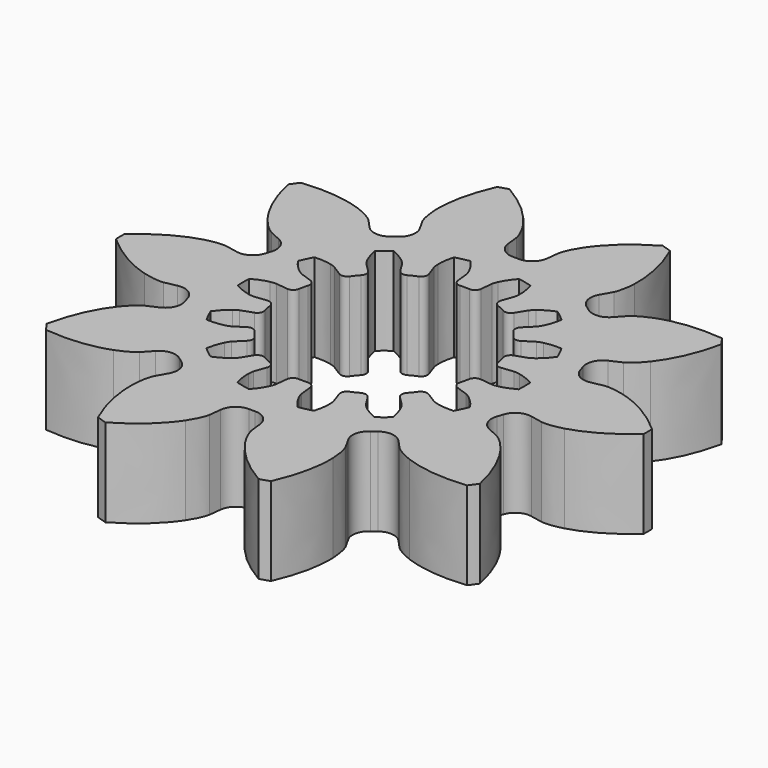
from build123d import *

# Parameters (mm, degrees)
EXTRUDE001_DEPTH = 3
EXTRUDE_DEPTH    = 3


with BuildPart() as extrude001:
    # InvoluteGear001 → Extrude001 (new body)
    with BuildSketch(Plane.XY):
        with BuildLine():
            Line((3.64295, -0.428852), (4.055425, -0.477057))
            add(Edge.make_bspline(
                [(4.055425, -0.477057), (4.07683, -0.47822), (4.141292, -0.479043), (4.249331, -0.457552)],
                knots=[0, 0, 0, 0, 1, 1, 1, 1], degree=3))
            add(Edge.make_bspline(
                [(4.249331, -0.457552), (4.378514, -0.431398), (4.564583, -0.373508), (4.794158, -0.247015)],
                knots=[0, 0, 0, 0, 1, 1, 1, 1], degree=3))
            ThreePointArc((4.794158, -0.247015), (4.800519, 0), (4.794158, 0.247015))
            add(Edge.make_bspline(
                [(4.794158, 0.247015), (4.564583, 0.373508), (4.378514, 0.431398), (4.249331, 0.457552)],
                knots=[0, 0, 0, 0, 1, 1, 1, 1], degree=3))
            add(Edge.make_bspline(
                [(4.249331, 0.457552), (4.141292, 0.479043), (4.07683, 0.47822), (4.055425, 0.477057)],
                knots=[0, 0, 0, 0, 1, 1, 1, 1], degree=3))
            Line((4.055425, 0.477057), (3.64295, 0.428852))
            ThreePointArc((3.64295, 0.428852), (3.482871, 0.471395), (3.395288, 0.611982))
            ThreePointArc((3.395288, 0.611982), (3.363501, 0.767697), (3.324578, 0.921783))
            ThreePointArc((3.324578, 0.921783), (3.342489, 1.086448), (3.468256, 1.194235))
            Line((3.468256, 1.194235), (3.860799, 1.329769))
            add(Edge.make_bspline(
                [(3.860799, 1.329769), (3.880589, 1.338009), (3.939024, 1.365237), (4.027039, 1.431476)],
                knots=[0, 0, 0, 0, 1, 1, 1, 1], degree=3))
            add(Edge.make_bspline(
                [(4.027039, 1.431476), (4.132081, 1.51109), (4.274606, 1.643979), (4.426563, 1.857555)],
                knots=[0, 0, 0, 0, 1, 1, 1, 1], degree=3))
            ThreePointArc((4.426563, 1.857555), (4.325118, 2.082867), (4.212212, 2.30266))
            add(Edge.make_bspline(
                [(4.212212, 2.30266), (3.950488, 2.317017), (3.757728, 2.288442), (3.629991, 2.255955)],
                knots=[0, 0, 0, 0, 1, 1, 1, 1], degree=3))
            add(Edge.make_bspline(
                [(3.629991, 2.255955), (3.523326, 2.228442), (3.465606, 2.199731), (3.446824, 2.189397)],
                knots=[0, 0, 0, 0, 1, 1, 1, 1], degree=3))
            Line((3.446824, 2.189397), (3.096113, 1.966999))
            ThreePointArc((3.096113, 1.966999), (2.933427, 1.935873), (2.793519, 2.024537))
            ThreePointArc((2.793519, 2.024537), (2.697319, 2.15104), (2.595394, 2.272978))
            ThreePointArc((2.595394, 2.272978), (2.540086, 2.429108), (2.606632, 2.580789))
            Line((2.606632, 2.580789), (2.901494, 2.873219))
            add(Edge.make_bspline(
                [(2.901494, 2.873219), (2.915749, 2.889229), (2.956584, 2.939114), (3.007143, 3.036982)],
                knots=[0, 0, 0, 0, 1, 1, 1, 1], degree=3))
            add(Edge.make_bspline(
                [(3.007143, 3.036982), (3.067239, 3.154288), (3.137991, 3.335856), (3.182233, 3.594213)],
                knots=[0, 0, 0, 0, 1, 1, 1, 1], degree=3))
            ThreePointArc((3.182233, 3.594213), (2.993074, 3.753196), (2.795985, 3.902235))
            add(Edge.make_bspline(
                [(2.795985, 3.902235), (2.55395, 3.801613), (2.392678, 3.692232), (2.291686, 3.60754)],
                knots=[0, 0, 0, 0, 1, 1, 1, 1], degree=3))
            add(Edge.make_bspline(
                [(2.291686, 3.60754), (2.207522, 3.536471), (2.167975, 3.485559), (2.155538, 3.468099)],
                knots=[0, 0, 0, 0, 1, 1, 1, 1], degree=3))
            Line((2.155538, 3.468099), (1.936053, 3.115558))
            ThreePointArc((1.936053, 3.115558), (1.802983, 3.016928), (1.63846, 3.036107))
            ThreePointArc((1.63846, 3.036107), (1.496899, 3.108343), (1.352161, 3.173982))
            ThreePointArc((1.352161, 3.173982), (1.234588, 3.290652), (1.228732, 3.456185))
            Line((1.228732, 3.456185), (1.367513, 3.847592))
            add(Edge.make_bspline(
                [(1.367513, 3.847592), (1.37341, 3.868202), (1.388556, 3.930864), (1.391645, 4.040976)],
                knots=[0, 0, 0, 0, 1, 1, 1, 1], degree=3))
            add(Edge.make_bspline(
                [(1.391645, 4.040976), (1.394893, 4.17274), (1.379858, 4.367026), (1.307622, 4.618993)],
                knots=[0, 0, 0, 0, 1, 1, 1, 1], degree=3))
            ThreePointArc((1.307622, 4.618993), (1.068216, 4.680159), (0.825979, 4.728925))
            add(Edge.make_bspline(
                [(0.825979, 4.728925), (0.651572, 4.533252), (0.553729, 4.364731), (0.499485, 4.244606)],
                knots=[0, 0, 0, 0, 1, 1, 1, 1], degree=3))
            add(Edge.make_bspline(
                [(0.499485, 4.244606), (0.454492, 4.144058), (0.44095, 4.08103), (0.437321, 4.059902)],
                knots=[0, 0, 0, 0, 1, 1, 1, 1], degree=3))
            Line((0.437321, 4.059902), (0.392533, 3.647042))
            ThreePointArc((0.392533, 3.647042), (0.315435, 3.500443), (0.158884, 3.446339))
            ThreePointArc((0.158884, 3.446339), (0, 3.45), (-0.158884, 3.446339))
            ThreePointArc((-0.158884, 3.446339), (-0.315435, 3.500443), (-0.392533, 3.647042))
            Line((-0.392533, 3.647042), (-0.437321, 4.059902))
            add(Edge.make_bspline(
                [(-0.437321, 4.059902), (-0.44095, 4.08103), (-0.454492, 4.144058), (-0.499485, 4.244606)],
                knots=[0, 0, 0, 0, 1, 1, 1, 1], degree=3))
            add(Edge.make_bspline(
                [(-0.499485, 4.244606), (-0.553729, 4.364731), (-0.651572, 4.533252), (-0.825979, 4.728925)],
                knots=[0, 0, 0, 0, 1, 1, 1, 1], degree=3))
            ThreePointArc((-0.825979, 4.728925), (-1.068216, 4.680159), (-1.307622, 4.618993))
            add(Edge.make_bspline(
                [(-1.307622, 4.618993), (-1.379858, 4.367026), (-1.394893, 4.17274), (-1.391645, 4.040976)],
                knots=[0, 0, 0, 0, 1, 1, 1, 1], degree=3))
            add(Edge.make_bspline(
                [(-1.391645, 4.040976), (-1.388556, 3.930864), (-1.37341, 3.868202), (-1.367513, 3.847592)],
                knots=[0, 0, 0, 0, 1, 1, 1, 1], degree=3))
            Line((-1.367513, 3.847592), (-1.228732, 3.456185))
            ThreePointArc((-1.228732, 3.456185), (-1.234588, 3.290652), (-1.352161, 3.173982))
            ThreePointArc((-1.352161, 3.173982), (-1.496899, 3.108343), (-1.63846, 3.036107))
            ThreePointArc((-1.63846, 3.036107), (-1.802983, 3.016928), (-1.936053, 3.115558))
            Line((-1.936053, 3.115558), (-2.155538, 3.468099))
            add(Edge.make_bspline(
                [(-2.155538, 3.468099), (-2.167975, 3.485559), (-2.207522, 3.536471), (-2.291686, 3.60754)],
                knots=[0, 0, 0, 0, 1, 1, 1, 1], degree=3))
            add(Edge.make_bspline(
                [(-2.291686, 3.60754), (-2.392678, 3.692232), (-2.55395, 3.801613), (-2.795985, 3.902235)],
                knots=[0, 0, 0, 0, 1, 1, 1, 1], degree=3))
            ThreePointArc((-2.795985, 3.902235), (-2.993074, 3.753196), (-3.182233, 3.594213))
            add(Edge.make_bspline(
                [(-3.182233, 3.594213), (-3.137991, 3.335856), (-3.067239, 3.154288), (-3.007143, 3.036982)],
                knots=[0, 0, 0, 0, 1, 1, 1, 1], degree=3))
            add(Edge.make_bspline(
                [(-3.007143, 3.036982), (-2.956584, 2.939114), (-2.915749, 2.889229), (-2.901494, 2.873219)],
                knots=[0, 0, 0, 0, 1, 1, 1, 1], degree=3))
            Line((-2.901494, 2.873219), (-2.606632, 2.580789))
            ThreePointArc((-2.606632, 2.580789), (-2.540086, 2.429108), (-2.595394, 2.272978))
            ThreePointArc((-2.595394, 2.272978), (-2.697319, 2.15104), (-2.793519, 2.024537))
            ThreePointArc((-2.793519, 2.024537), (-2.933427, 1.935873), (-3.096113, 1.966999))
            Line((-3.096113, 1.966999), (-3.446824, 2.189397))
            add(Edge.make_bspline(
                [(-3.446824, 2.189397), (-3.465606, 2.199731), (-3.523326, 2.228442), (-3.629991, 2.255955)],
                knots=[0, 0, 0, 0, 1, 1, 1, 1], degree=3))
            add(Edge.make_bspline(
                [(-3.629991, 2.255955), (-3.757728, 2.288442), (-3.950488, 2.317017), (-4.212212, 2.30266)],
                knots=[0, 0, 0, 0, 1, 1, 1, 1], degree=3))
            ThreePointArc((-4.212212, 2.30266), (-4.325118, 2.082867), (-4.426563, 1.857555))
            add(Edge.make_bspline(
                [(-4.426563, 1.857555), (-4.274606, 1.643979), (-4.132081, 1.51109), (-4.027039, 1.431476)],
                knots=[0, 0, 0, 0, 1, 1, 1, 1], degree=3))
            add(Edge.make_bspline(
                [(-4.027039, 1.431476), (-3.939024, 1.365237), (-3.880589, 1.338009), (-3.860799, 1.329769)],
                knots=[0, 0, 0, 0, 1, 1, 1, 1], degree=3))
            Line((-3.860799, 1.329769), (-3.468256, 1.194235))
            ThreePointArc((-3.468256, 1.194235), (-3.342489, 1.086448), (-3.324578, 0.921783))
            ThreePointArc((-3.324578, 0.921783), (-3.363501, 0.767697), (-3.395288, 0.611982))
            ThreePointArc((-3.395288, 0.611982), (-3.482871, 0.471395), (-3.64295, 0.428852))
            Line((-3.64295, 0.428852), (-4.055425, 0.477057))
            add(Edge.make_bspline(
                [(-4.055425, 0.477057), (-4.07683, 0.47822), (-4.141292, 0.479043), (-4.249331, 0.457552)],
                knots=[0, 0, 0, 0, 1, 1, 1, 1], degree=3))
            add(Edge.make_bspline(
                [(-4.249331, 0.457552), (-4.378514, 0.431398), (-4.564583, 0.373508), (-4.794158, 0.247015)],
                knots=[0, 0, 0, 0, 1, 1, 1, 1], degree=3))
            ThreePointArc((-4.794158, 0.247015), (-4.800519, 0), (-4.794158, -0.247015))
            add(Edge.make_bspline(
                [(-4.794158, -0.247015), (-4.564583, -0.373508), (-4.378514, -0.431398), (-4.249331, -0.457552)],
                knots=[0, 0, 0, 0, 1, 1, 1, 1], degree=3))
            add(Edge.make_bspline(
                [(-4.249331, -0.457552), (-4.141292, -0.479043), (-4.07683, -0.47822), (-4.055425, -0.477057)],
                knots=[0, 0, 0, 0, 1, 1, 1, 1], degree=3))
            Line((-4.055425, -0.477057), (-3.64295, -0.428852))
            ThreePointArc((-3.64295, -0.428852), (-3.482871, -0.471395), (-3.395288, -0.611982))
            ThreePointArc((-3.395288, -0.611982), (-3.363501, -0.767697), (-3.324578, -0.921783))
            ThreePointArc((-3.324578, -0.921783), (-3.342489, -1.086448), (-3.468256, -1.194235))
            Line((-3.468256, -1.194235), (-3.860799, -1.329769))
            add(Edge.make_bspline(
                [(-3.860799, -1.329769), (-3.880589, -1.338009), (-3.939024, -1.365237), (-4.027039, -1.431476)],
                knots=[0, 0, 0, 0, 1, 1, 1, 1], degree=3))
            add(Edge.make_bspline(
                [(-4.027039, -1.431476), (-4.132081, -1.51109), (-4.274606, -1.643979), (-4.426563, -1.857555)],
                knots=[0, 0, 0, 0, 1, 1, 1, 1], degree=3))
            ThreePointArc((-4.426563, -1.857555), (-4.325118, -2.082867), (-4.212212, -2.30266))
            add(Edge.make_bspline(
                [(-4.212212, -2.30266), (-3.950488, -2.317017), (-3.757728, -2.288442), (-3.629991, -2.255955)],
                knots=[0, 0, 0, 0, 1, 1, 1, 1], degree=3))
            add(Edge.make_bspline(
                [(-3.629991, -2.255955), (-3.523326, -2.228442), (-3.465606, -2.199731), (-3.446824, -2.189397)],
                knots=[0, 0, 0, 0, 1, 1, 1, 1], degree=3))
            Line((-3.446824, -2.189397), (-3.096113, -1.966999))
            ThreePointArc((-3.096113, -1.966999), (-2.933427, -1.935873), (-2.793519, -2.024537))
            ThreePointArc((-2.793519, -2.024537), (-2.697319, -2.15104), (-2.595394, -2.272978))
            ThreePointArc((-2.595394, -2.272978), (-2.540086, -2.429108), (-2.606632, -2.580789))
            Line((-2.606632, -2.580789), (-2.901494, -2.873219))
            add(Edge.make_bspline(
                [(-2.901494, -2.873219), (-2.915749, -2.889229), (-2.956584, -2.939114), (-3.007143, -3.036982)],
                knots=[0, 0, 0, 0, 1, 1, 1, 1], degree=3))
            add(Edge.make_bspline(
                [(-3.007143, -3.036982), (-3.067239, -3.154288), (-3.137991, -3.335856), (-3.182233, -3.594213)],
                knots=[0, 0, 0, 0, 1, 1, 1, 1], degree=3))
            ThreePointArc((-3.182233, -3.594213), (-2.993074, -3.753196), (-2.795985, -3.902235))
            add(Edge.make_bspline(
                [(-2.795985, -3.902235), (-2.55395, -3.801613), (-2.392678, -3.692232), (-2.291686, -3.60754)],
                knots=[0, 0, 0, 0, 1, 1, 1, 1], degree=3))
            add(Edge.make_bspline(
                [(-2.291686, -3.60754), (-2.207522, -3.536471), (-2.167975, -3.485559), (-2.155538, -3.468099)],
                knots=[0, 0, 0, 0, 1, 1, 1, 1], degree=3))
            Line((-2.155538, -3.468099), (-1.936053, -3.115558))
            ThreePointArc((-1.936053, -3.115558), (-1.802983, -3.016928), (-1.63846, -3.036107))
            ThreePointArc((-1.63846, -3.036107), (-1.496899, -3.108343), (-1.352161, -3.173982))
            ThreePointArc((-1.352161, -3.173982), (-1.234588, -3.290652), (-1.228732, -3.456185))
            Line((-1.228732, -3.456185), (-1.367513, -3.847592))
            add(Edge.make_bspline(
                [(-1.367513, -3.847592), (-1.37341, -3.868202), (-1.388556, -3.930864), (-1.391645, -4.040976)],
                knots=[0, 0, 0, 0, 1, 1, 1, 1], degree=3))
            add(Edge.make_bspline(
                [(-1.391645, -4.040976), (-1.394893, -4.17274), (-1.379858, -4.367026), (-1.307622, -4.618993)],
                knots=[0, 0, 0, 0, 1, 1, 1, 1], degree=3))
            ThreePointArc((-1.307622, -4.618993), (-1.068216, -4.680159), (-0.825979, -4.728925))
            add(Edge.make_bspline(
                [(-0.825979, -4.728925), (-0.651572, -4.533252), (-0.553729, -4.364731), (-0.499485, -4.244606)],
                knots=[0, 0, 0, 0, 1, 1, 1, 1], degree=3))
            add(Edge.make_bspline(
                [(-0.499485, -4.244606), (-0.454492, -4.144058), (-0.44095, -4.08103), (-0.437321, -4.059902)],
                knots=[0, 0, 0, 0, 1, 1, 1, 1], degree=3))
            Line((-0.437321, -4.059902), (-0.392533, -3.647042))
            ThreePointArc((-0.392533, -3.647042), (-0.315435, -3.500443), (-0.158884, -3.446339))
            ThreePointArc((-0.158884, -3.446339), (0, -3.45), (0.158884, -3.446339))
            ThreePointArc((0.158884, -3.446339), (0.315435, -3.500443), (0.392533, -3.647042))
            Line((0.392533, -3.647042), (0.437321, -4.059902))
            add(Edge.make_bspline(
                [(0.437321, -4.059902), (0.44095, -4.08103), (0.454492, -4.144058), (0.499485, -4.244606)],
                knots=[0, 0, 0, 0, 1, 1, 1, 1], degree=3))
            add(Edge.make_bspline(
                [(0.499485, -4.244606), (0.553729, -4.364731), (0.651572, -4.533252), (0.825979, -4.728925)],
                knots=[0, 0, 0, 0, 1, 1, 1, 1], degree=3))
            ThreePointArc((0.825979, -4.728925), (1.068216, -4.680159), (1.307622, -4.618993))
            add(Edge.make_bspline(
                [(1.307622, -4.618993), (1.379858, -4.367026), (1.394893, -4.17274), (1.391645, -4.040976)],
                knots=[0, 0, 0, 0, 1, 1, 1, 1], degree=3))
            add(Edge.make_bspline(
                [(1.391645, -4.040976), (1.388556, -3.930864), (1.37341, -3.868202), (1.367513, -3.847592)],
                knots=[0, 0, 0, 0, 1, 1, 1, 1], degree=3))
            Line((1.367513, -3.847592), (1.228732, -3.456185))
            ThreePointArc((1.228732, -3.456185), (1.234588, -3.290652), (1.352161, -3.173982))
            ThreePointArc((1.352161, -3.173982), (1.496899, -3.108343), (1.63846, -3.036107))
            ThreePointArc((1.63846, -3.036107), (1.802983, -3.016928), (1.936053, -3.115558))
            Line((1.936053, -3.115558), (2.155538, -3.468099))
            add(Edge.make_bspline(
                [(2.155538, -3.468099), (2.167975, -3.485559), (2.207522, -3.536471), (2.291686, -3.60754)],
                knots=[0, 0, 0, 0, 1, 1, 1, 1], degree=3))
            add(Edge.make_bspline(
                [(2.291686, -3.60754), (2.392678, -3.692232), (2.55395, -3.801613), (2.795985, -3.902235)],
                knots=[0, 0, 0, 0, 1, 1, 1, 1], degree=3))
            ThreePointArc((2.795985, -3.902235), (2.993074, -3.753196), (3.182233, -3.594213))
            add(Edge.make_bspline(
                [(3.182233, -3.594213), (3.137991, -3.335856), (3.067239, -3.154288), (3.007143, -3.036982)],
                knots=[0, 0, 0, 0, 1, 1, 1, 1], degree=3))
            add(Edge.make_bspline(
                [(3.007143, -3.036982), (2.956584, -2.939114), (2.915749, -2.889229), (2.901494, -2.873219)],
                knots=[0, 0, 0, 0, 1, 1, 1, 1], degree=3))
            Line((2.901494, -2.873219), (2.606632, -2.580789))
            ThreePointArc((2.606632, -2.580789), (2.540086, -2.429108), (2.595394, -2.272978))
            ThreePointArc((2.595394, -2.272978), (2.697319, -2.15104), (2.793519, -2.024537))
            ThreePointArc((2.793519, -2.024537), (2.933427, -1.935873), (3.096113, -1.966999))
            Line((3.096113, -1.966999), (3.446824, -2.189397))
            add(Edge.make_bspline(
                [(3.446824, -2.189397), (3.465606, -2.199731), (3.523326, -2.228442), (3.629991, -2.255955)],
                knots=[0, 0, 0, 0, 1, 1, 1, 1], degree=3))
            add(Edge.make_bspline(
                [(3.629991, -2.255955), (3.757728, -2.288442), (3.950488, -2.317017), (4.212212, -2.30266)],
                knots=[0, 0, 0, 0, 1, 1, 1, 1], degree=3))
            ThreePointArc((4.212212, -2.30266), (4.325118, -2.082867), (4.426563, -1.857555))
            add(Edge.make_bspline(
                [(4.426563, -1.857555), (4.274606, -1.643979), (4.132081, -1.51109), (4.027039, -1.431476)],
                knots=[0, 0, 0, 0, 1, 1, 1, 1], degree=3))
            add(Edge.make_bspline(
                [(4.027039, -1.431476), (3.939024, -1.365237), (3.880589, -1.338009), (3.860799, -1.329769)],
                knots=[0, 0, 0, 0, 1, 1, 1, 1], degree=3))
            Line((3.860799, -1.329769), (3.468256, -1.194235))
            ThreePointArc((3.468256, -1.194235), (3.342489, -1.086448), (3.324578, -0.921783))
            ThreePointArc((3.324578, -0.921783), (3.363501, -0.767697), (3.395288, -0.611982))
            ThreePointArc((3.395288, -0.611982), (3.482871, -0.471395), (3.64295, -0.428852))
        make_face()
    extrude(amount=EXTRUDE001_DEPTH)


with BuildPart() as obj1:
    # InvoluteGear → Extrude (new body)
    with BuildSketch(Plane.XY):
        with BuildLine():
            Line((6.03255, -1.255823), (6.452784, -1.341177))
            add(Edge.make_bspline(
                [(6.452784, -1.341177), (6.530931, -1.349725), (6.764114, -1.360645), (7.160033, -1.253678)],
                knots=[0, 0, 0, 0, 1, 1, 1, 1], degree=3))
            add(Edge.make_bspline(
                [(7.160033, -1.253678), (7.626553, -1.121908), (8.275157, -0.827134), (9.002324, -0.177866)],
                knots=[0, 0, 0, 0, 1, 1, 1, 1], degree=3))
            ThreePointArc((9.002324, -0.177866), (9.004081, 0), (9.002324, 0.177866))
            add(Edge.make_bspline(
                [(9.002324, 0.177866), (8.275157, 0.827134), (7.626553, 1.121908), (7.160033, 1.253678)],
                knots=[0, 0, 0, 0, 1, 1, 1, 1], degree=3))
            add(Edge.make_bspline(
                [(7.160033, 1.253678), (6.764114, 1.360645), (6.530931, 1.349725), (6.452784, 1.341177)],
                knots=[0, 0, 0, 0, 1, 1, 1, 1], degree=3))
            Line((6.452784, 1.341177), (6.03255, 1.255823))
            ThreePointArc((6.03255, 1.255823), (5.632205, 1.321974), (5.380533, 1.640271))
            ThreePointArc((5.380533, 1.640271), (5.349693, 1.738221), (5.31707, 1.83559))
            ThreePointArc((5.31707, 1.83559), (5.333586, 2.241028), (5.61859, 2.529861))
            Line((5.61859, 2.529861), (6.008736, 2.707816))
            add(Edge.make_bspline(
                [(6.008736, 2.707816), (6.076982, 2.746835), (6.27205, 2.875062), (6.529482, 3.194315)],
                knots=[0, 0, 0, 0, 1, 1, 1, 1], degree=3))
            add(Edge.make_bspline(
                [(6.529482, 3.194315), (6.829452, 3.575133), (7.180919, 4.19485), (7.38758, 5.147536)],
                knots=[0, 0, 0, 0, 1, 1, 1, 1], degree=3))
            ThreePointArc((7.38758, 5.147536), (7.284455, 5.292466), (7.178486, 5.43533))
            add(Edge.make_bspline(
                [(7.178486, 5.43533), (6.208566, 5.53318), (5.51057, 5.390418), (5.055695, 5.222809)],
                knots=[0, 0, 0, 0, 1, 1, 1, 1], degree=3))
            add(Edge.make_bspline(
                [(5.055695, 5.222809), (4.672517, 5.076631), (4.490286, 4.930735), (4.432088, 4.877886)],
                knots=[0, 0, 0, 0, 1, 1, 1, 1], degree=3))
            Line((4.432088, 4.877886), (4.142281, 4.561826))
            ThreePointArc((4.142281, 4.561826), (3.779513, 4.380026), (3.388815, 4.489605))
            ThreePointArc((3.388815, 4.489605), (3.306292, 4.550721), (3.222667, 4.610319))
            ThreePointArc((3.222667, 4.610319), (2.997719, 4.948033), (3.058519, 5.349225))
            Line((3.058519, 5.349225), (3.269555, 5.722516))
            add(Edge.make_bspline(
                [(3.269555, 5.722516), (3.301833, 5.794197), (3.384276, 6.012593), (3.40489, 6.422188)],
                knots=[0, 0, 0, 0, 1, 1, 1, 1], degree=3))
            add(Edge.make_bspline(
                [(3.40489, 6.422188), (3.423732, 6.906595), (3.343815, 7.614544), (2.951032, 8.506755)],
                knots=[0, 0, 0, 0, 1, 1, 1, 1], degree=3))
            ThreePointArc((2.951032, 8.506755), (2.782414, 8.56339), (2.61271, 8.616682))
            add(Edge.make_bspline(
                [(2.61271, 8.616682), (1.770513, 8.12574), (1.289737, 7.599972), (1.020253, 7.197004)],
                knots=[0, 0, 0, 0, 1, 1, 1, 1], degree=3))
            add(Edge.make_bspline(
                [(1.020253, 7.197004), (0.796176, 6.853517), (0.734504, 6.628372), (0.718484, 6.551409)],
                knots=[0, 0, 0, 0, 1, 1, 1, 1], degree=3))
            Line((0.718484, 6.551409), (0.669801, 6.125367))
            ThreePointArc((0.669801, 6.125367), (0.483175, 5.765057), (0.102685, 5.624063))
            ThreePointArc((0.102685, 5.624063), (0, 5.625), (-0.102685, 5.624063))
            ThreePointArc((-0.102685, 5.624063), (-0.483175, 5.765057), (-0.669801, 6.125367))
            Line((-0.669801, 6.125367), (-0.718484, 6.551409))
            add(Edge.make_bspline(
                [(-0.718484, 6.551409), (-0.734504, 6.628372), (-0.796176, 6.853517), (-1.020253, 7.197004)],
                knots=[0, 0, 0, 0, 1, 1, 1, 1], degree=3))
            add(Edge.make_bspline(
                [(-1.020253, 7.197004), (-1.289737, 7.599972), (-1.770513, 8.12574), (-2.61271, 8.616682)],
                knots=[0, 0, 0, 0, 1, 1, 1, 1], degree=3))
            ThreePointArc((-2.61271, 8.616682), (-2.782414, 8.56339), (-2.951032, 8.506755))
            add(Edge.make_bspline(
                [(-2.951032, 8.506755), (-3.343815, 7.614544), (-3.423732, 6.906595), (-3.40489, 6.422188)],
                knots=[0, 0, 0, 0, 1, 1, 1, 1], degree=3))
            add(Edge.make_bspline(
                [(-3.40489, 6.422188), (-3.384276, 6.012593), (-3.301833, 5.794197), (-3.269555, 5.722516)],
                knots=[0, 0, 0, 0, 1, 1, 1, 1], degree=3))
            Line((-3.269555, 5.722516), (-3.058519, 5.349225))
            ThreePointArc((-3.058519, 5.349225), (-2.997719, 4.948033), (-3.222667, 4.610319))
            ThreePointArc((-3.222667, 4.610319), (-3.306292, 4.550721), (-3.388815, 4.489605))
            ThreePointArc((-3.388815, 4.489605), (-3.779513, 4.380026), (-4.142281, 4.561826))
            Line((-4.142281, 4.561826), (-4.432088, 4.877886))
            add(Edge.make_bspline(
                [(-4.432088, 4.877886), (-4.490286, 4.930735), (-4.672517, 5.076631), (-5.055695, 5.222809)],
                knots=[0, 0, 0, 0, 1, 1, 1, 1], degree=3))
            add(Edge.make_bspline(
                [(-5.055695, 5.222809), (-5.51057, 5.390418), (-6.208566, 5.53318), (-7.178486, 5.43533)],
                knots=[0, 0, 0, 0, 1, 1, 1, 1], degree=3))
            ThreePointArc((-7.178486, 5.43533), (-7.284455, 5.292466), (-7.38758, 5.147536))
            add(Edge.make_bspline(
                [(-7.38758, 5.147536), (-7.180919, 4.19485), (-6.829452, 3.575133), (-6.529482, 3.194315)],
                knots=[0, 0, 0, 0, 1, 1, 1, 1], degree=3))
            add(Edge.make_bspline(
                [(-6.529482, 3.194315), (-6.27205, 2.875062), (-6.076982, 2.746835), (-6.008736, 2.707816)],
                knots=[0, 0, 0, 0, 1, 1, 1, 1], degree=3))
            Line((-6.008736, 2.707816), (-5.61859, 2.529861))
            ThreePointArc((-5.61859, 2.529861), (-5.333586, 2.241028), (-5.31707, 1.83559))
            ThreePointArc((-5.31707, 1.83559), (-5.349693, 1.738221), (-5.380533, 1.640271))
            ThreePointArc((-5.380533, 1.640271), (-5.632205, 1.321974), (-6.03255, 1.255823))
            Line((-6.03255, 1.255823), (-6.452784, 1.341177))
            add(Edge.make_bspline(
                [(-6.452784, 1.341177), (-6.530931, 1.349725), (-6.764114, 1.360645), (-7.160033, 1.253678)],
                knots=[0, 0, 0, 0, 1, 1, 1, 1], degree=3))
            add(Edge.make_bspline(
                [(-7.160033, 1.253678), (-7.626553, 1.121908), (-8.275157, 0.827134), (-9.002324, 0.177866)],
                knots=[0, 0, 0, 0, 1, 1, 1, 1], degree=3))
            ThreePointArc((-9.002324, 0.177866), (-9.004081, 0), (-9.002324, -0.177866))
            add(Edge.make_bspline(
                [(-9.002324, -0.177866), (-8.275157, -0.827134), (-7.626553, -1.121908), (-7.160033, -1.253678)],
                knots=[0, 0, 0, 0, 1, 1, 1, 1], degree=3))
            add(Edge.make_bspline(
                [(-7.160033, -1.253678), (-6.764114, -1.360645), (-6.530931, -1.349725), (-6.452784, -1.341177)],
                knots=[0, 0, 0, 0, 1, 1, 1, 1], degree=3))
            Line((-6.452784, -1.341177), (-6.03255, -1.255823))
            ThreePointArc((-6.03255, -1.255823), (-5.632205, -1.321974), (-5.380533, -1.640271))
            ThreePointArc((-5.380533, -1.640271), (-5.349693, -1.738221), (-5.31707, -1.83559))
            ThreePointArc((-5.31707, -1.83559), (-5.333586, -2.241028), (-5.61859, -2.529861))
            Line((-5.61859, -2.529861), (-6.008736, -2.707816))
            add(Edge.make_bspline(
                [(-6.008736, -2.707816), (-6.076982, -2.746835), (-6.27205, -2.875062), (-6.529482, -3.194315)],
                knots=[0, 0, 0, 0, 1, 1, 1, 1], degree=3))
            add(Edge.make_bspline(
                [(-6.529482, -3.194315), (-6.829452, -3.575133), (-7.180919, -4.19485), (-7.38758, -5.147536)],
                knots=[0, 0, 0, 0, 1, 1, 1, 1], degree=3))
            ThreePointArc((-7.38758, -5.147536), (-7.284455, -5.292466), (-7.178486, -5.43533))
            add(Edge.make_bspline(
                [(-7.178486, -5.43533), (-6.208566, -5.53318), (-5.51057, -5.390418), (-5.055695, -5.222809)],
                knots=[0, 0, 0, 0, 1, 1, 1, 1], degree=3))
            add(Edge.make_bspline(
                [(-5.055695, -5.222809), (-4.672517, -5.076631), (-4.490286, -4.930735), (-4.432088, -4.877886)],
                knots=[0, 0, 0, 0, 1, 1, 1, 1], degree=3))
            Line((-4.432088, -4.877886), (-4.142281, -4.561826))
            ThreePointArc((-4.142281, -4.561826), (-3.779513, -4.380026), (-3.388815, -4.489605))
            ThreePointArc((-3.388815, -4.489605), (-3.306292, -4.550721), (-3.222667, -4.610319))
            ThreePointArc((-3.222667, -4.610319), (-2.997719, -4.948033), (-3.058519, -5.349225))
            Line((-3.058519, -5.349225), (-3.269555, -5.722516))
            add(Edge.make_bspline(
                [(-3.269555, -5.722516), (-3.301833, -5.794197), (-3.384276, -6.012593), (-3.40489, -6.422188)],
                knots=[0, 0, 0, 0, 1, 1, 1, 1], degree=3))
            add(Edge.make_bspline(
                [(-3.40489, -6.422188), (-3.423732, -6.906595), (-3.343815, -7.614544), (-2.951032, -8.506755)],
                knots=[0, 0, 0, 0, 1, 1, 1, 1], degree=3))
            ThreePointArc((-2.951032, -8.506755), (-2.782414, -8.56339), (-2.61271, -8.616682))
            add(Edge.make_bspline(
                [(-2.61271, -8.616682), (-1.770513, -8.12574), (-1.289737, -7.599972), (-1.020253, -7.197004)],
                knots=[0, 0, 0, 0, 1, 1, 1, 1], degree=3))
            add(Edge.make_bspline(
                [(-1.020253, -7.197004), (-0.796176, -6.853517), (-0.734504, -6.628372), (-0.718484, -6.551409)],
                knots=[0, 0, 0, 0, 1, 1, 1, 1], degree=3))
            Line((-0.718484, -6.551409), (-0.669801, -6.125367))
            ThreePointArc((-0.669801, -6.125367), (-0.483175, -5.765057), (-0.102685, -5.624063))
            ThreePointArc((-0.102685, -5.624063), (0, -5.625), (0.102685, -5.624063))
            ThreePointArc((0.102685, -5.624063), (0.483175, -5.765057), (0.669801, -6.125367))
            Line((0.669801, -6.125367), (0.718484, -6.551409))
            add(Edge.make_bspline(
                [(0.718484, -6.551409), (0.734504, -6.628372), (0.796176, -6.853517), (1.020253, -7.197004)],
                knots=[0, 0, 0, 0, 1, 1, 1, 1], degree=3))
            add(Edge.make_bspline(
                [(1.020253, -7.197004), (1.289737, -7.599972), (1.770513, -8.12574), (2.61271, -8.616682)],
                knots=[0, 0, 0, 0, 1, 1, 1, 1], degree=3))
            ThreePointArc((2.61271, -8.616682), (2.782414, -8.56339), (2.951032, -8.506755))
            add(Edge.make_bspline(
                [(2.951032, -8.506755), (3.343815, -7.614544), (3.423732, -6.906595), (3.40489, -6.422188)],
                knots=[0, 0, 0, 0, 1, 1, 1, 1], degree=3))
            add(Edge.make_bspline(
                [(3.40489, -6.422188), (3.384276, -6.012593), (3.301833, -5.794197), (3.269555, -5.722516)],
                knots=[0, 0, 0, 0, 1, 1, 1, 1], degree=3))
            Line((3.269555, -5.722516), (3.058519, -5.349225))
            ThreePointArc((3.058519, -5.349225), (2.997719, -4.948033), (3.222667, -4.610319))
            ThreePointArc((3.222667, -4.610319), (3.306292, -4.550721), (3.388815, -4.489605))
            ThreePointArc((3.388815, -4.489605), (3.779513, -4.380026), (4.142281, -4.561826))
            Line((4.142281, -4.561826), (4.432088, -4.877886))
            add(Edge.make_bspline(
                [(4.432088, -4.877886), (4.490286, -4.930735), (4.672517, -5.076631), (5.055695, -5.222809)],
                knots=[0, 0, 0, 0, 1, 1, 1, 1], degree=3))
            add(Edge.make_bspline(
                [(5.055695, -5.222809), (5.51057, -5.390418), (6.208566, -5.53318), (7.178486, -5.43533)],
                knots=[0, 0, 0, 0, 1, 1, 1, 1], degree=3))
            ThreePointArc((7.178486, -5.43533), (7.284455, -5.292466), (7.38758, -5.147536))
            add(Edge.make_bspline(
                [(7.38758, -5.147536), (7.180919, -4.19485), (6.829452, -3.575133), (6.529482, -3.194315)],
                knots=[0, 0, 0, 0, 1, 1, 1, 1], degree=3))
            add(Edge.make_bspline(
                [(6.529482, -3.194315), (6.27205, -2.875062), (6.076982, -2.746835), (6.008736, -2.707816)],
                knots=[0, 0, 0, 0, 1, 1, 1, 1], degree=3))
            Line((6.008736, -2.707816), (5.61859, -2.529861))
            ThreePointArc((5.61859, -2.529861), (5.333586, -2.241028), (5.31707, -1.83559))
            ThreePointArc((5.31707, -1.83559), (5.349693, -1.738221), (5.380533, -1.640271))
            ThreePointArc((5.380533, -1.640271), (5.632205, -1.321974), (6.03255, -1.255823))
        make_face()
    extrude(amount=EXTRUDE_DEPTH)

    # Cut: cut Extrude001
    add(extrude001.part, mode=Mode.SUBTRACT)


solid = obj1.part
